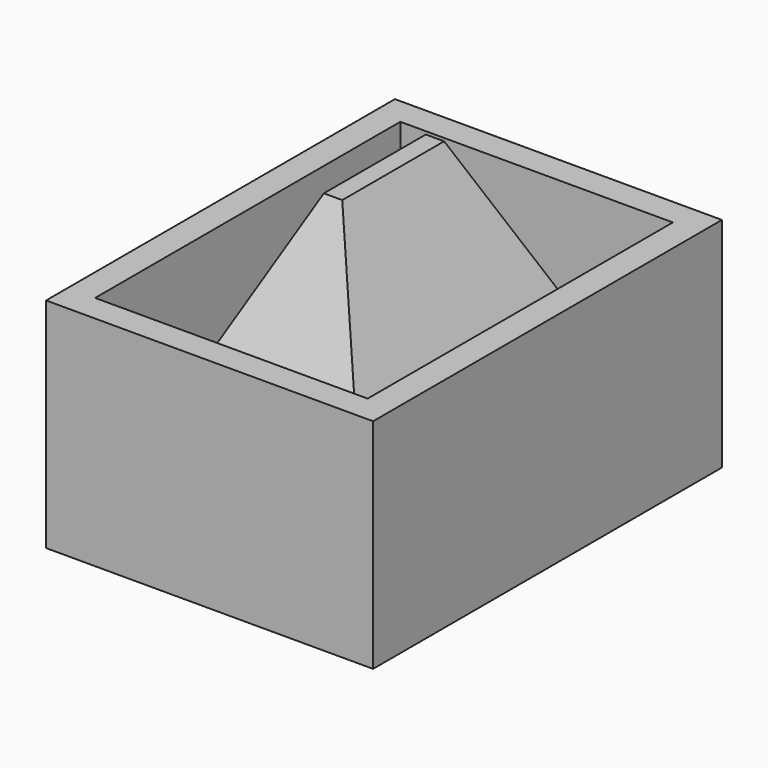
from build123d import *

# Parameters (mm, degrees)
F0_W     = 30
F0_H     = 40
F1_DEPTH = 20
F2_T     = -2.5
F3_W     = 25
F3_H     = 35
F4_DEPTH = 25
F4_TAPER = 25


with BuildPart() as f1:
    # F0 (on Top) → F1 (new body)
    with BuildSketch(Plane.XY):
        Rectangle(F0_W, F0_H)
    extrude(amount=F1_DEPTH)

    # F2
    f2_openings = [f1.faces().sort_by_distance(p)[0] for p in [
        (0, 0, 20),
    ]]
    offset(amount=F2_T, openings=f2_openings)

    # F3 (on face) → F4 (join)
    with BuildSketch(Plane.XY.offset(2.5)):
        Rectangle(F3_W, F3_H)
    extrude(amount=F4_DEPTH, taper=F4_TAPER)


solid = f1.part
